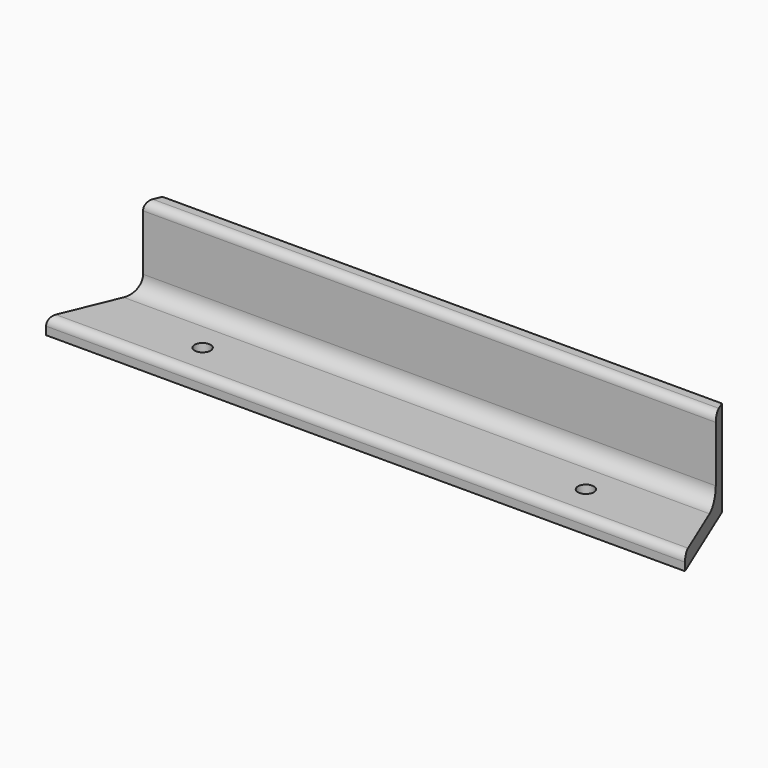
from build123d import *

# Parameters (mm, degrees)
F1_DEPTH = 127
F2_R     = 6.35
F3_R     = 3.175
F4_R     = 3.175
F5_DEPTH = 6.351
F7_DEPTH = 38.101


with BuildPart() as f1:
    # F0 (on Right) → F1 (new body, symmetric)
    with BuildSketch(Plane.YZ):
        Polygon((-38.1, 0), (0, 0), (0, 38.1), (-6.35, 38.1), (-6.35, 6.35), (-38.1, 6.35), align=None)
    extrude(amount=F1_DEPTH, both=True)

    # F2
    f2_edges = [f1.edges().sort_by_distance(p)[0] for p in [
        (0, -6.35, 6.35),
    ]]
    fillet(f2_edges, radius=F2_R)

    # F3
    f3_edges = [f1.edges().sort_by_distance(p)[0] for p in [
        (0, -6.35, 38.1),
        (0, -38.1, 6.35),
    ]]
    fillet(f3_edges, radius=F3_R)

    # F4 (on face) → F5 (cut, through all)
    with BuildSketch(Plane.XY.offset(6.35)):
        with Locations((-76.2, -23.8125)):
            Circle(F4_R)
        with Locations((76.2, -23.8125)):
            Circle(F4_R)
    extrude(amount=-F5_DEPTH, mode=Mode.SUBTRACT)

    # F6 (on face) → F7 (cut, through all)
    with BuildSketch(Plane(origin=(0, 0, 0), x_dir=(1, 0, 0), z_dir=(0, 0, -1))):
        Polygon((-111.218463, 0), (-127, 38.1), (-127, 0), align=None)
        Polygon((111.218463, 0), (127, 0), (127, 38.1), align=None)
    extrude(amount=-F7_DEPTH, mode=Mode.SUBTRACT)


solid = f1.part
